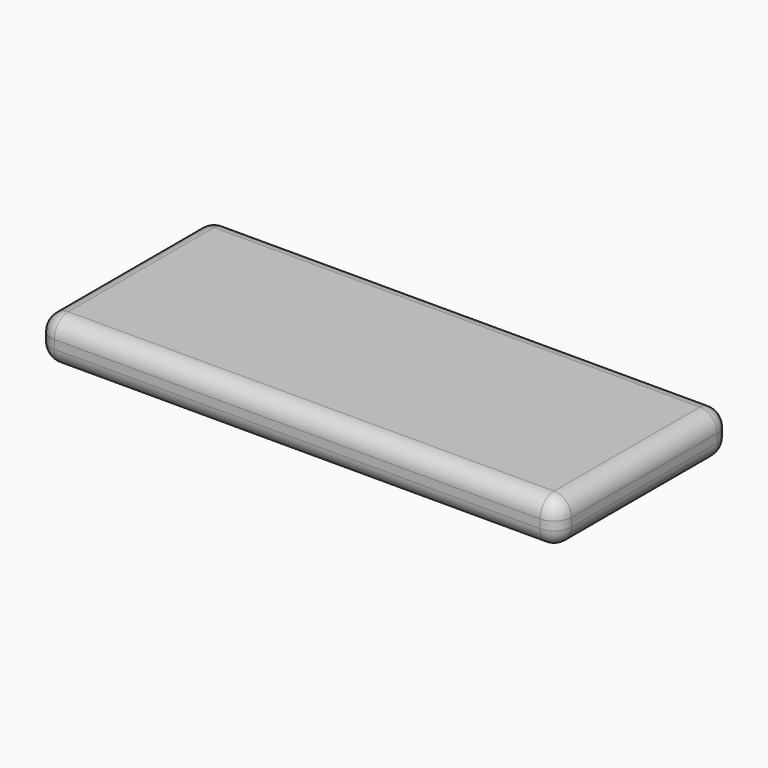
from build123d import *

# Parameters (mm, degrees)
SKETCH_W  = 60
SKETCH_H  = 25
PAD_DEPTH = 5
FILLET_R  = 2


with BuildPart() as part:
    # Sketch → Pad (new body)
    with BuildSketch(Plane.XY):
        Rectangle(SKETCH_W, SKETCH_H)
    extrude(amount=PAD_DEPTH)

    # Fillet
    fillet_edges = [part.edges().sort_by_distance(p)[0] for p in [
        (-30, 12.5, 2.5),
        (30, 12.5, 2.5),
        (0, 12.5, 0),
        (0, 12.5, 5),
        (30, -12.5, 2.5),
        (30, 0, 0),
        (30, 0, 5),
        (-30, -12.5, 2.5),
        (0, -12.5, 0),
        (0, -12.5, 5),
        (-30, 0, 0),
        (-30, 0, 5),
    ]]
    fillet(fillet_edges, radius=FILLET_R)


solid = part.part
